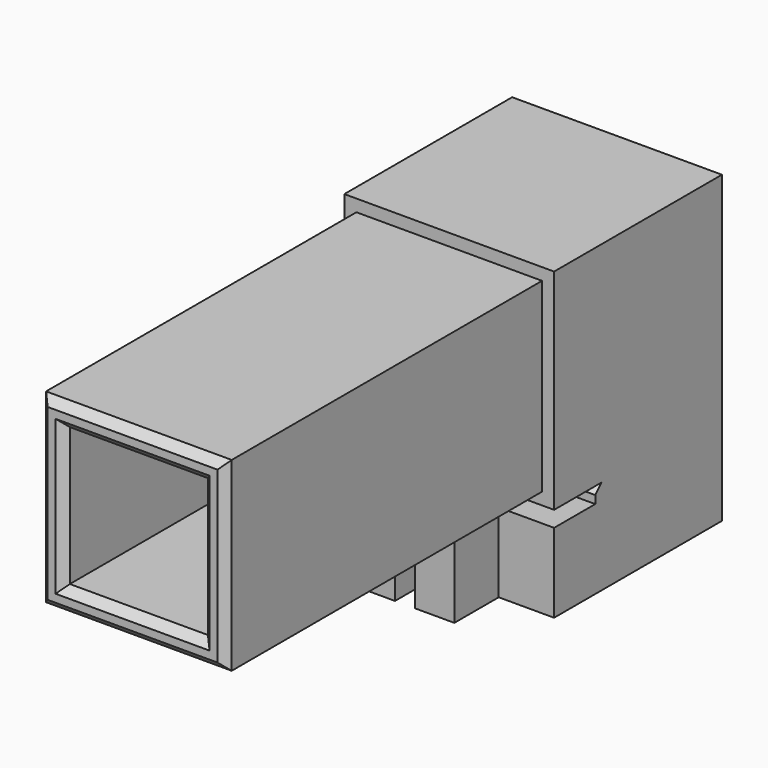
from build123d import *

# Parameters (mm, degrees)
PAD_DEPTH       = 10
PAD001_DEPTH    = 2
CHAMFER_SIZE    = 1
SKETCH002_W     = 26.5
SKETCH002_H     = 26.5
PAD002_DEPTH    = 26.5
SKETCH003_W     = 16.5
SKETCH003_H     = 16.5
POCKET_DEPTH    = 20
SKETCH004_W     = 20.5
SKETCH004_H     = 20.5
POCKET001_DEPTH = 5
SKETCH005_W     = 23.45
SKETCH005_H     = 23.45
SKETCH005_W_2   = 17.45
SKETCH005_H_2   = 17.45
PAD003_DEPTH    = 50
CHAMFER001_SIZE = 1


with BuildPart() as part:
    # Sketch → Pad (new body)
    with BuildSketch(Plane.XY):
        Polygon((6.25, -20.25), (6.25, -13.25), (13.25, -13.25), (13.25, 13.25), (-13.25, 13.25), (-13.25, -13.25), (-6.25, -13.25), (-6.25, -20.25), (-1.25, -20.25), (-1.25, -10.25), (-10.25, -10.25), (-10.25, 10.25), (10.25, 10.25), (10.25, -10.25), (1.25, -10.25), (1.25, -20.25), align=None)
    extrude(amount=PAD_DEPTH)

    # Sketch001 (on Face18 of Pad) → Pad001 (join)
    with BuildSketch(Plane.XY.offset(10)):
        Polygon((-10.25, -6.75), (-13.25, -6.75), (-13.25, 13.25), (13.25, 13.25), (13.25, -6.75), (10.25, -6.75), (10.25, 10.25), (-10.25, 10.25), align=None)
    extrude(amount=PAD001_DEPTH)

    # Chamfer
    chamfer_edges = [part.edges().sort_by_distance(p)[0] for p in [
        (-11.75, -6.75, 12),
        (11.75, -6.75, 12),
    ]]
    chamfer(chamfer_edges, length=CHAMFER_SIZE)

    # Sketch002 (on Face7 of Chamfer) → Pad002 (join)
    with BuildSketch(Plane.XY.offset(12)):
        Rectangle(SKETCH002_W, SKETCH002_H)
    extrude(amount=PAD002_DEPTH)

    # Sketch003 (on Face20 of Pad002) → Pocket (cut)
    with BuildSketch(Plane.XZ.offset(13.25)):
        with Locations((0, 25.25)):
            Rectangle(SKETCH003_W, SKETCH003_H)
    extrude(amount=-POCKET_DEPTH, mode=Mode.SUBTRACT)

    # Sketch004 (on Face9 of Pocket) → Pocket001 (cut)
    with BuildSketch(Plane(origin=(0, 0, 12), x_dir=(1, 0, 0), z_dir=(0, 0, -1))):
        Rectangle(SKETCH004_W, SKETCH004_H)
    extrude(amount=-POCKET001_DEPTH, mode=Mode.SUBTRACT)

    # Sketch005 (on Face21 of Pocket001) → Pad003 (join)
    with BuildSketch(Plane.XZ.offset(13.25)):
        with Locations((0, 25.25)):
            Rectangle(SKETCH005_W, SKETCH005_H)
        with Locations((0, 25.25)):
            Rectangle(SKETCH005_W_2, SKETCH005_H_2, mode=Mode.SUBTRACT)
    extrude(amount=PAD003_DEPTH)

    # Chamfer001
    chamfer001_edges = [part.edges().sort_by_distance(p)[0] for p in [
        (0, -63.25, 36.975),
        (11.725, -63.25, 25.25),
        (0, -63.25, 13.525),
        (-11.725, -63.25, 25.25),
        (0, -63.25, 33.975),
        (8.725, -63.25, 25.25),
        (0, -63.25, 16.525),
        (-8.725, -63.25, 25.25),
    ]]
    chamfer(chamfer001_edges, length=CHAMFER001_SIZE)


solid = part.part
